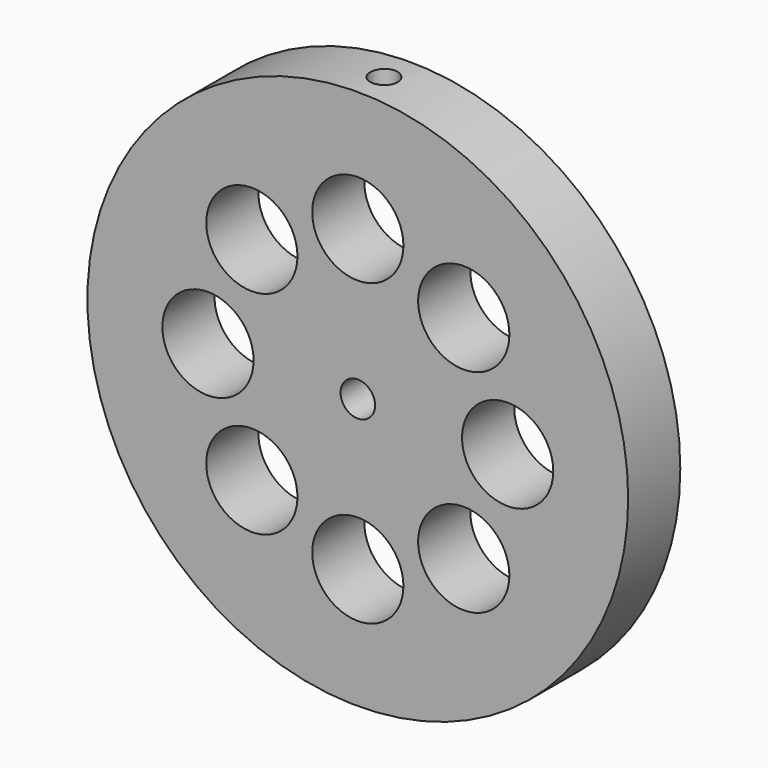
from build123d import *

# Parameters (mm, degrees)
F0_R     = 41.5
F0_R_2   = 7
F0_R_3   = 2.65
F1_DEPTH = 5
F4_D     = 4.2
F4_DEPTH = 10
F4_TIP   = 1.2618073


with BuildPart() as f1:
    # F0 (on Front) → F1 (new body, symmetric)
    with BuildSketch(Plane.XZ):
        Circle(F0_R)
        with Locations((-16.2634559673, -16.2634559673)):
            Circle(F0_R_2, mode=Mode.SUBTRACT)
        with Locations((0, -23)):
            Circle(F0_R_2, mode=Mode.SUBTRACT)
        with Locations((16.2634559673, -16.2634559673)):
            Circle(F0_R_2, mode=Mode.SUBTRACT)
        with Locations((-23, 0)):
            Circle(F0_R_2, mode=Mode.SUBTRACT)
        with Locations((-16.2634559673, 16.2634559673)):
            Circle(F0_R_2, mode=Mode.SUBTRACT)
        Circle(F0_R_3, mode=Mode.SUBTRACT)
        with Locations((16.2634559673, 16.2634559673)):
            Circle(F0_R_2, mode=Mode.SUBTRACT)
        with Locations((23, 0)):
            Circle(F0_R_2, mode=Mode.SUBTRACT)
        with Locations((0, 23)):
            Circle(F0_R_2, mode=Mode.SUBTRACT)
    extrude(amount=F1_DEPTH, both=True)

    # F4
    with Locations(Plane.XY.offset(41.5)):
        with Locations((0, 0)):
            Hole(F4_D / 2, depth=F4_DEPTH)
            with Locations((0, 0, -(F4_DEPTH + F4_TIP / 2))):  # 118° drill point
                Cone(0, F4_D / 2, F4_TIP, mode=Mode.SUBTRACT)


solid = f1.part
